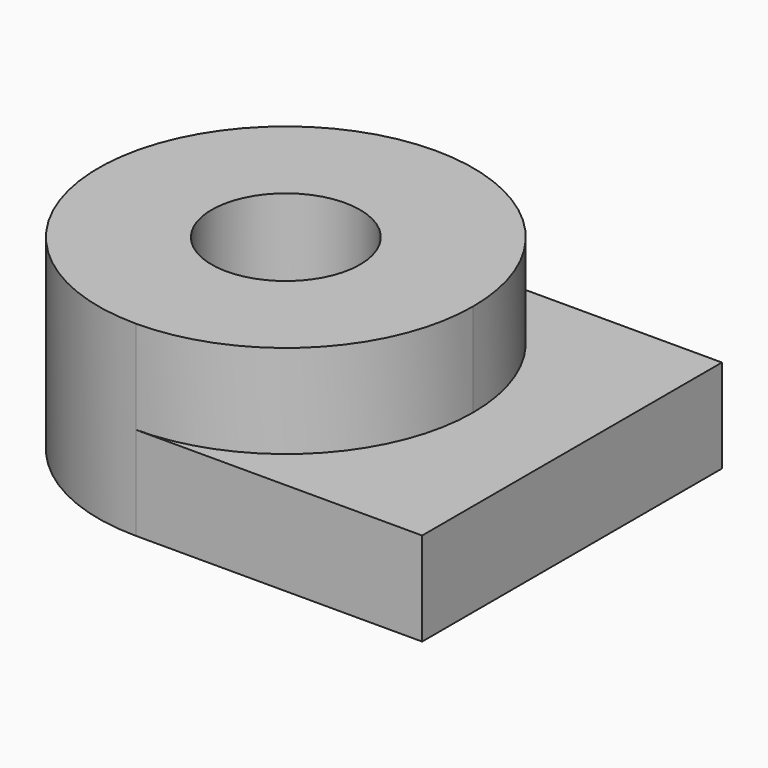
from build123d import *

# Parameters (mm, degrees)
F0_R     = 19.861396
F1_DEPTH = 50
F2_DEPTH = 25


with BuildPart() as f1:
    # F0 (on Top) → F1 (new body)
    with BuildSketch(Plane.XY):
        with BuildLine():
            ThreePointArc((0, -50.148256), (35.460172, -35.460172), (50.148256, 0))
            ThreePointArc((50.148256, 0), (35.460172, 35.460172), (0, 50.148256))
            ThreePointArc((0, 50.148256), (-50.148256, 0), (0, -50.148256))
        make_face()
        Circle(F0_R, mode=Mode.SUBTRACT)
    extrude(amount=F1_DEPTH)

    # F0 (on Top) → F2 (join)
    with BuildSketch(Plane.XY):
        with BuildLine():
            ThreePointArc((0, -50.148256), (35.460172, -35.460172), (50.148256, 0))
            ThreePointArc((50.148256, 0), (35.460172, 35.460172), (0, 50.148256))
            ThreePointArc((0, 50.148256), (-50.148256, 0), (0, -50.148256))
        make_face()
        Circle(F0_R, mode=Mode.SUBTRACT)
        with BuildLine():
            ThreePointArc((0, 50.148256), (35.460172, 35.460172), (50.148256, 0))
            ThreePointArc((50.148256, 0), (35.460172, -35.460172), (0, -50.148256))
            Line((0, -50.148256), (76.60187, -50.148256))
            Line((76.60187, -50.148256), (76.60187, 50.148256))
            Line((76.60187, 50.148256), (0, 50.148256))
        make_face()
    extrude(amount=F2_DEPTH)


solid = f1.part
